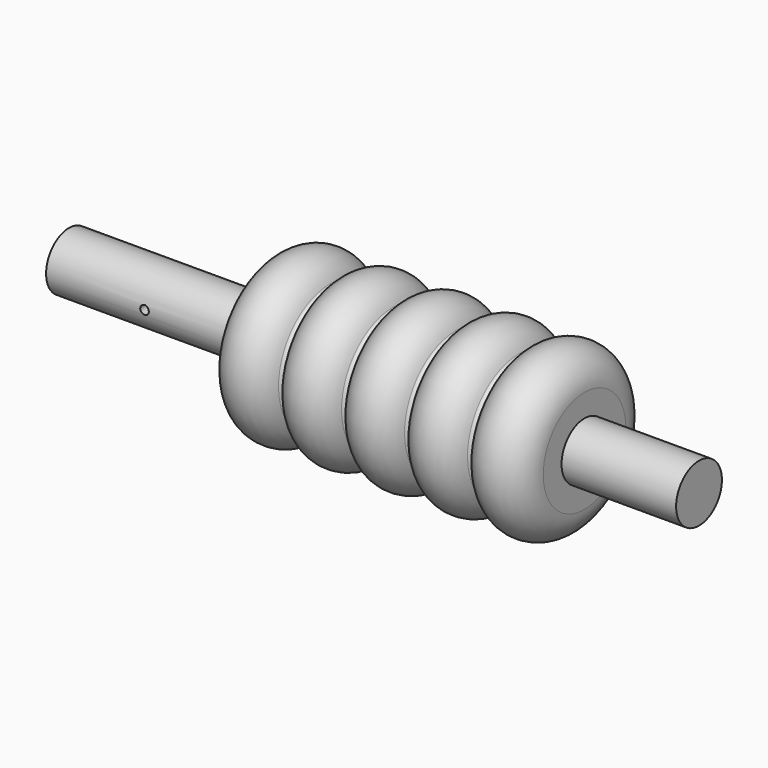
from build123d import *

# Parameters (mm, degrees)
F2_R          = 2.25
F2_R_2        = 0.75
F3_DEPTH      = 25
F4_DEPTH      = 25
F4_DEPTH_BACK = 25


with BuildPart() as f1:
    # F0 (on Front) → F1 (revolve)
    with BuildSketch(Plane.XZ):
        with BuildLine():
            Line((-110, 5), (-110, 0))
            Line((-110, 0), (0, 0))
            Line((0, 0), (0, 5))
            Line((0, 5), (-20, 5))
            Line((-20, 5), (-20, 9))
            ThreePointArc((-20, 9), (-24.377317, 14.384198), (-30.541667, 11.198089))
            ThreePointArc((-30.541667, 11.198089), (-31, 10.897916), (-31.458333, 11.198089))
            ThreePointArc((-31.458333, 11.198089), (-36.5, 14.5), (-41.541667, 11.198089))
            ThreePointArc((-41.541667, 11.198089), (-42, 10.897916), (-42.458333, 11.198089))
            ThreePointArc((-42.458333, 11.198089), (-47.5, 14.5), (-52.541667, 11.198089))
            ThreePointArc((-52.541667, 11.198089), (-53, 10.897916), (-53.458333, 11.198089))
            ThreePointArc((-53.458333, 11.198089), (-58.5, 14.5), (-63.541667, 11.198089))
            ThreePointArc((-63.541667, 11.198089), (-64, 10.897916), (-64.458333, 11.198089))
            ThreePointArc((-64.458333, 11.198089), (-70.622683, 14.384198), (-75, 9))
            Line((-75, 9), (-75, 5))
            Line((-75, 5), (-110, 5))
        make_face()
    revolve(axis=Axis((-3.055549, 0, 0), (1, 0, 0)))

    # F2 (on Front) → F3 (cut)
    with BuildSketch(Plane.XZ):
        with Locations((-92.814966, 0)):
            Circle(F2_R)
        with Locations((-92.814966, 0)):
            Circle(F2_R_2, mode=Mode.SUBTRACT)
    extrude(amount=-F3_DEPTH, mode=Mode.SUBTRACT)

    # F2 (on Front) → F4 (cut, two sides)
    with BuildSketch(Plane.XZ) as f4_sk:
        with Locations((-92.814966, 0)):
            Circle(F2_R_2)
    extrude(amount=F4_DEPTH, mode=Mode.SUBTRACT)
    extrude(f4_sk.sketch, amount=-F4_DEPTH_BACK, mode=Mode.SUBTRACT)


solid = f1.part
